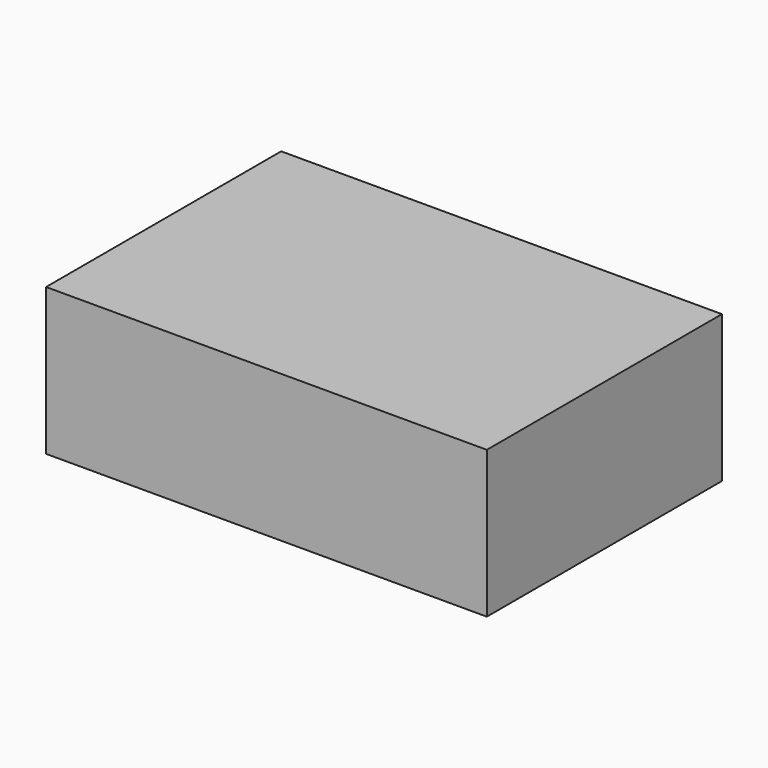
from build123d import *

# Parameters (mm, degrees)
F0_W     = 19.05
F0_H     = 19.05
F1_DEPTH = 38.1


with BuildPart() as f1:
    # F0 (on Front) → F1 (new body)
    with BuildSketch(Plane.XZ):
        with Locations((-54.959264, 9.525)):
            Rectangle(F0_W, F0_H)
        with Locations((-35.909264, 9.525)):
            Rectangle(F0_W, F0_H)
        with Locations((-16.859264, 9.525)):
            Rectangle(F0_W, F0_H)
    extrude(amount=-F1_DEPTH)


solid = f1.part
